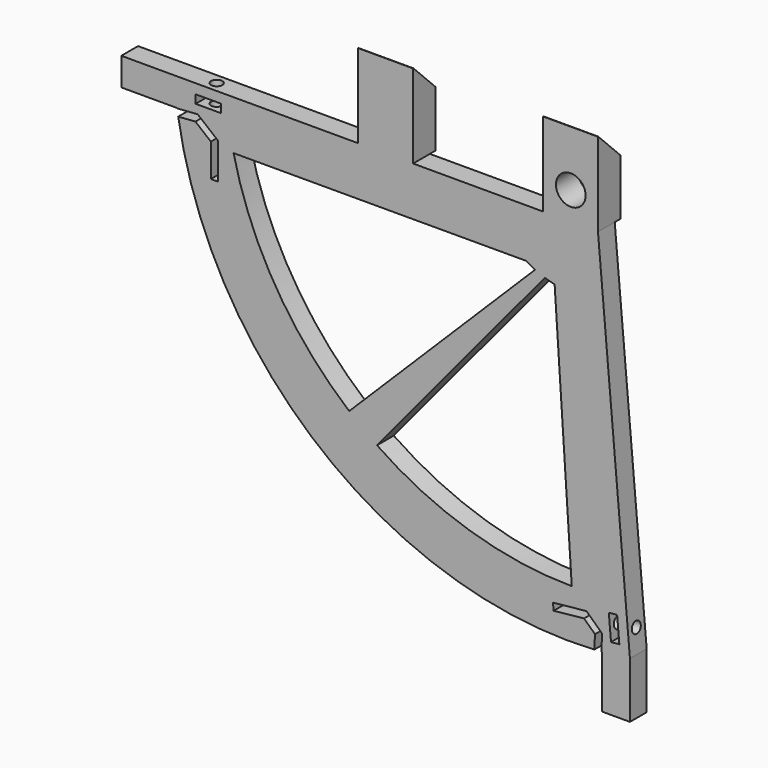
from build123d import *

# Parameters (mm, degrees)
SKETCH119_R     = 4.25
PAD037_DEPTH    = 8
POCKET089_DEPTH = 10
SKETCH145_W     = 212.757988
SKETCH145_H     = 111.377136
POCKET090_DEPTH = 2
CHAMFER024_SIZE = 7.9
SKETCH146_W     = 16
SKETCH146_H     = 8
SKETCH146_W_2   = 8
SKETCH146_H_2   = 16
PAD043_DEPTH    = 6
POCKET091_DEPTH = 6
SKETCH148_R     = 5.25
POCKET092_DEPTH = 2
CHAMFER025_SIZE = 0.5
SKETCH149_W     = 7.25
SKETCH149_H     = 2.4
POCKET093_DEPTH = 6
SKETCH150_R     = 1.6
POCKET094_DEPTH = 11.42
SKETCH151_R     = 1.6
POCKET095_DEPTH = 10.75


with BuildPart() as part:
    # Sketch119 → Pad037 (new body)
    with BuildSketch(Plane.XZ):
        with BuildLine():
            Line((43.1, 311.61), (58.9, 311.61))
            Line((58.9, 311.61), (58.9, 287.61))
            Line((58.9, 287.61), (68.0627698178, 182.8790617439))
            ThreePointArc((-62.6189518066, 287.61), (-20.1922299081, 206.652605958), (68.0627698178, 182.8790617439))
            Line((-9.9, 287.61), (-62.6189518066, 287.61))
            Line((-9.9, 311.61), (-9.9, 287.61))
            Line((5.9, 311.61), (-9.9, 311.61))
            Line((5.9, 287.61), (5.9, 311.61))
            Line((43.1, 287.61), (5.9, 287.61))
            Line((43.1, 287.61), (43.1, 311.61))
        make_face()
        with Locations((51.1, 295.61)):
            Circle(SKETCH119_R, mode=Mode.SUBTRACT)
    extrude(amount=PAD037_DEPTH)

    # Sketch144 (on Sketch) → Pocket089 (cut, symmetric)
    with BuildSketch(Plane(origin=(0, -2, 0), x_dir=(1, 0, 0), z_dir=(0, 1, 0))):
        with BuildLine():
            Line((46.4683764269, -270.2884951656), (51.3899439591, -195.7125763223))
            ThreePointArc((51.3899439591, -195.7125763223), (22.163397434, -200.2401058051), (-4.4606389833, -213.1183910114))
            Line((43.6500461, -271.0604538296), (-4.4606389833, -213.1183910114))
            Line((46.4683764269, -270.2884951656), (43.6500461, -271.0604538296))
        make_face()
        with BuildLine():
            Line((38.2664280008, -273.5828375694), (-45.585449, -273.501129))
            ThreePointArc((-12.4277002687, -219.1620599694), (-33.4458091568, -243.6227695917), (-45.585449, -273.501129))
            Line((40.8654991159, -272.1768310477), (-12.4277002687, -219.1620599694))
            Line((38.2664280008, -273.5828375694), (40.8654991159, -272.1768310477))
        make_face()
    extrude(amount=POCKET089_DEPTH, both=True, mode=Mode.SUBTRACT)

    # Sketch145 (on Face4 of Pocket089) → Pocket090 (cut)
    with BuildSketch(Plane(origin=(0, 0, 0), x_dir=(1, 0, 0), z_dir=(0, 1, 0))):
        with Locations((0.739727, -231.921432)):
            Rectangle(SKETCH145_W, SKETCH145_H)
    extrude(amount=-POCKET090_DEPTH, mode=Mode.SUBTRACT)

    # Chamfer024
    chamfer024_edges = [part.edges().sort_by_distance(p)[0] for p in [
        (51, 0, 311.61),
        (-2, 0, 311.61),
    ]]
    chamfer(chamfer024_edges, length=CHAMFER024_SIZE)

    # Sketch146 (on Face24 of Chamfer024) → Pad043 (join)
    with BuildSketch(Plane(origin=(0, -2, 0), x_dir=(1, 0, 0), z_dir=(0, 1, 0))):
        with Locations((-69.7716084762, -283.61)):
            Rectangle(SKETCH146_W, SKETCH146_H)
        with Locations((64.0627698178, -174.8790617439)):
            Rectangle(SKETCH146_W_2, SKETCH146_H_2)
    extrude(amount=-PAD043_DEPTH)

    # Sketch147 (on Face26 of Pad043) → Pocket091 (cut)
    with BuildSketch(Plane(origin=(0, -2, 0), x_dir=(1, 0, 0), z_dir=(0, 1, 0))):
        Polygon((59.8525224324, -181.7142315678), (60.0816034962, -186.6062288871), (55.6003748066, -190.8009391349), (45.9859602644, -189.8230627729), (46.188335, -187.833328), (54.8977345384, -188.7191558264), (58.040592409, -185.7772443485), (57.8465339537, -181.633150432), align=None)
        Polygon((-62.4277412024, -277.4774293102), (-56.5131742791, -277.9036519615), (-52.105898537, -274.2887258472), (-52.105898537, -264.8339163664), (-50.105898537, -264.8339163664), (-50.105898537, -275.234992563), (-55.8614558604, -279.9558032607), (-62.5714948328, -279.4722563437), align=None)
    extrude(amount=-POCKET091_DEPTH, mode=Mode.SUBTRACT)

    # Sketch148 (on Face42 of Pocket091) → Pocket092 (cut)
    with BuildSketch(Plane(origin=(0, -2, 0), x_dir=(1, 0, 0), z_dir=(0, 1, 0))):
        with Locations((-32.5660026534, -280.61)):
            Circle(SKETCH148_R)
        with Locations((58.1, -210.8987256618)):
            Circle(SKETCH148_R)
    extrude(amount=-POCKET092_DEPTH, mode=Mode.SUBTRACT)

    # Chamfer025
    chamfer025_edges = [part.edges().sort_by_distance(p)[0] for p in [
        (52.85, -2, 210.898726),
        (-37.816003, -2, 280.61),
    ]]
    chamfer(chamfer025_edges, length=CHAMFER025_SIZE)

    # Sketch149 (on Face1 of Chamfer025) → Pocket093 (cut)
    with BuildSketch(Plane(origin=(0, -2, 0), x_dir=(1, 0, 0), z_dir=(0, 1, 0))):
        with Locations((-52.8400088116, -283.61)):
            Rectangle(SKETCH149_W, SKETCH149_H)
        Polygon((62.6335907882, -185.2715531365), (62.0017116533, -192.4939646977), (64.3925789287, -192.7031384803), (65.0244580636, -185.4807269191), align=None)
    extrude(amount=-POCKET093_DEPTH, mode=Mode.SUBTRACT)

    # Sketch150 (on Face6 of Pocket093) → Pocket094 (cut)
    with BuildSketch(Plane(origin=(0, 0, 287.61), x_dir=(-1, 0, 0), z_dir=(0, 0, 1))):
        with Locations((52.8216084762, 5)):
            Circle(SKETCH150_R)
    extrude(amount=-POCKET094_DEPTH, mode=Mode.SUBTRACT)

    # Sketch151 (on Face5 of Pocket094) → Pocket095 (cut)
    with BuildSketch(Plane(origin=(83.4240645156, 0, 7.2986599104), x_dir=(-0.0871557427, 0, 0.9961946981), z_dir=(0.9961946981, 0, 0.0871557427))):
        with Locations((182.7510904443, 5)):
            Circle(SKETCH151_R)
    extrude(amount=-POCKET095_DEPTH, mode=Mode.SUBTRACT)


with BuildPart() as part_1:
    # Body028 placement: moved
    add(part.part.moved(Location((-23, 49, 0))))


solid = part_1.part
